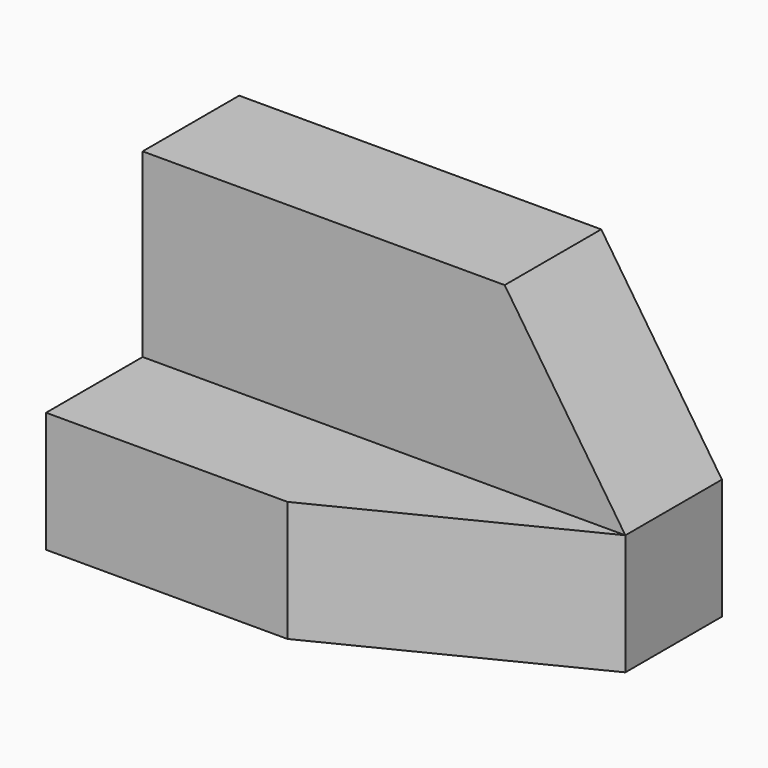
from build123d import *

# Parameters (mm, degrees)
F0_W     = 50.8
F0_H     = 31.75
F1_DEPTH = 25.4
F2_W     = 50.8
F2_H     = 19.05
F3_DEPTH = 12.7
F5_DEPTH = 25.4
F7_DEPTH = 25.4


with BuildPart() as f1:
    # F0 (on Front) → F1 (new body)
    with BuildSketch(Plane.XZ):
        with Locations((25.4, 15.875)):
            Rectangle(F0_W, F0_H)
    extrude(amount=F1_DEPTH)

    # F2 (on face) → F3 (cut)
    with BuildSketch(Plane.XZ.offset(25.4)):
        with Locations((25.4, 22.225)):
            Rectangle(F2_W, F2_H)
    extrude(amount=-F3_DEPTH, mode=Mode.SUBTRACT)

    # F4 (on face) → F5 (cut)
    with BuildSketch(Plane.XY.offset(12.7)):
        Polygon((50.8, -25.4), (50.8, -12.7), (25.4, -25.4), align=None)
    extrude(amount=-F5_DEPTH, mode=Mode.SUBTRACT)

    # F6 (on face) → F7 (cut)
    with BuildSketch(Plane.XZ.offset(12.7)):
        Polygon((38.1, 31.75), (50.8, 12.7), (50.8, 31.75), align=None)
    extrude(amount=-F7_DEPTH, mode=Mode.SUBTRACT)


solid = f1.part
